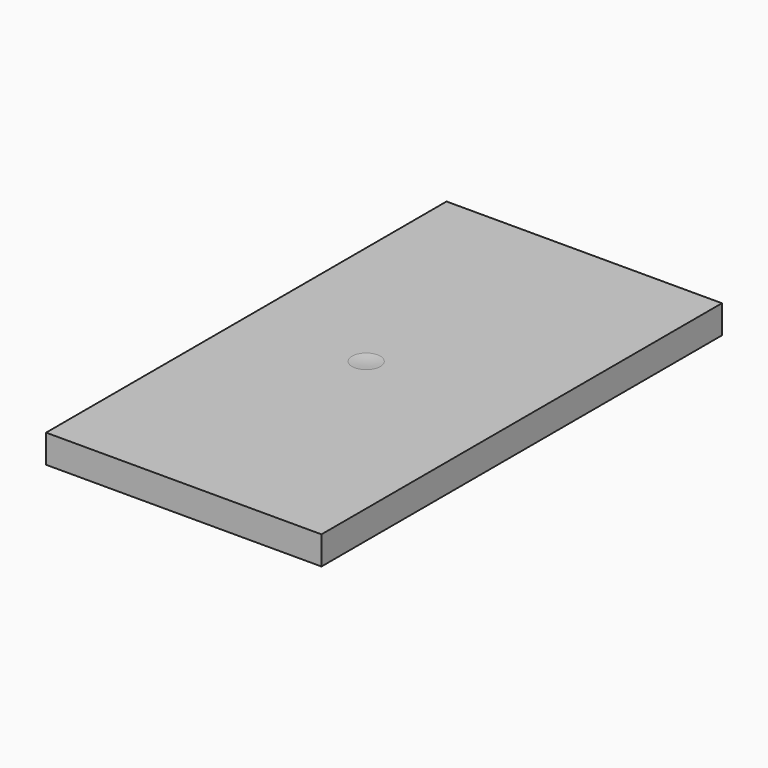
from build123d import *

# Parameters (mm, degrees)
F3_W     = 27.507902
F3_H     = 2.828666
F4_DEPTH = 50


with BuildPart() as f1:
    # F0 (on Front) → F1 (revolve)
    with BuildSketch(Plane.XZ):
        with BuildLine():
            Line((0, 10), (0, -10))
            ThreePointArc((0, -10), (10, 0), (0, 10))
        make_face()
    revolve(axis=Axis((0, 0, 0), (0, 0, 1)))


with BuildPart() as f4:
    # F3 (on offset) → F4 (new body)
    with BuildSketch(Plane.XZ.offset(25)):
        with Locations((1.777139, -11.314333)):
            Rectangle(F3_W, F3_H)
    extrude(amount=-F4_DEPTH)

    # F5: cut F1
    add(f1.part, mode=Mode.SUBTRACT)


solid = f4.part
